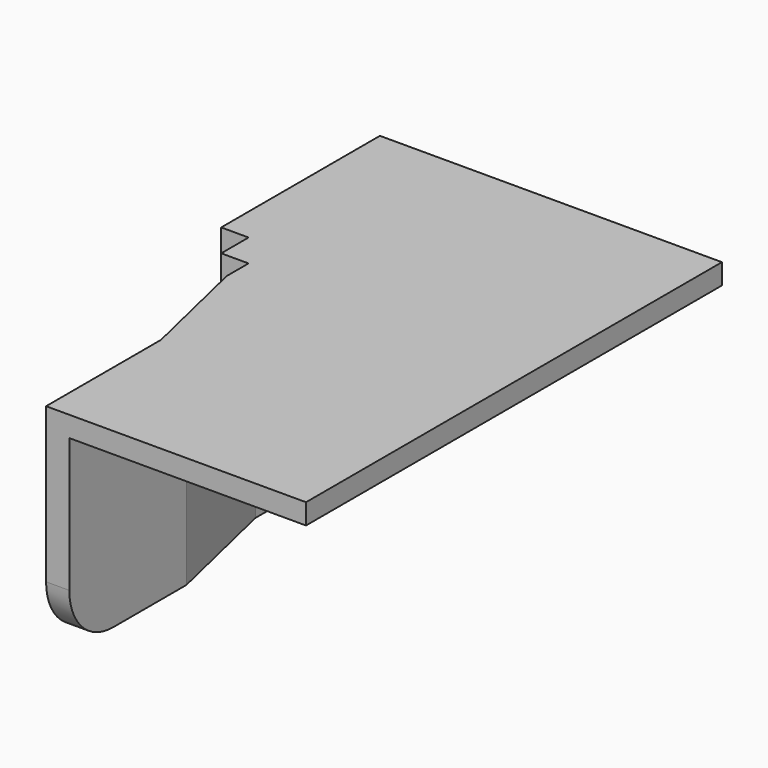
from build123d import *

# Parameters (mm, degrees)
F1_DEPTH = 1.5
F3_DEPTH = 13.8
F4_W     = 14.5
F4_H     = 12.8
F5_DEPTH = 2
F6_W     = 2
F6_H     = 2
F7_DEPTH = 6
F8_R     = 4


with BuildPart() as f1:
    # F0 (on Top) → F1 (new body)
    with BuildSketch(Plane.XY):
        Polygon((2.435753, 14.841201), (-20.564247, 14.841201), (-20.564247, -2.158799), (-18.564247, -2.158799), (-18.564247, -4.158799), (-16.564247, -12.658799), (-16.564247, -23.158799), (2.435753, -23.158799), align=None)
    extrude(amount=F1_DEPTH)

    # F2 (on face) → F3 (join)
    with BuildSketch(Plane(origin=(0, 0, 0), x_dir=(1, 0, 0), z_dir=(0, 0, -1))):
        Polygon((-14.864247, 23.158799), (-16.564247, 23.158799), (-16.564247, 12.658799), (-18.564247, 4.158799), (-18.564247, 2.158799), (-20.564247, 2.158799), (-20.564247, -14.841201), (-16.964247, -14.841201), (-16.964247, 3.536493), (-14.864247, 12.461493), align=None)
    extrude(amount=F3_DEPTH)

    # F4 (on face) → F5 (join)
    with BuildSketch(Plane(origin=(-20.564247, 0, 0), x_dir=(0, -1, 0), z_dir=(-1, 0, 0))):
        with Locations((-7.591201, -4.9)):
            Rectangle(F4_W, F4_H)
    extrude(amount=F5_DEPTH)

    # F6 (on face) → F7 (join)
    with BuildSketch(Plane(origin=(0, 14.841201, 0), x_dir=(-1, 0, 0), z_dir=(0, 1, 0))):
        with Locations((19.764247, -6.15)):
            Rectangle(F6_W, F6_H)
    extrude(amount=F7_DEPTH)

    # F8
    f8_edges = [f1.edges().sort_by_distance(p)[0] for p in [
        (-15.714247, -23.158799, -13.8),
    ]]
    fillet(f8_edges, radius=F8_R)


solid = f1.part
